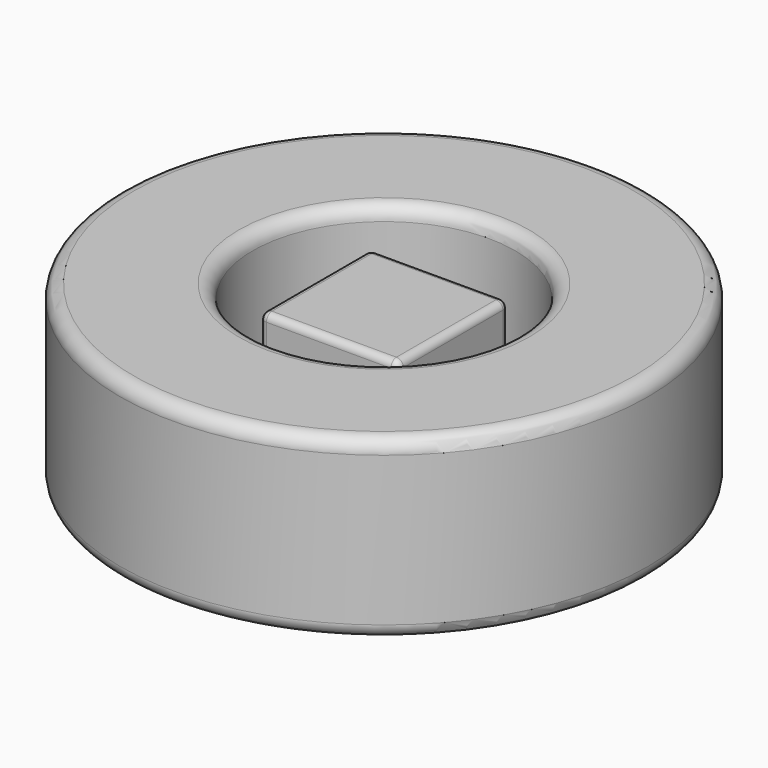
from build123d import *

# Parameters (mm, degrees)
F0_W     = 5
F0_H     = 5
F1_DEPTH = 2.5
F2_R     = 0.25
F3_R     = 9.55
F3_R_2   = 4.75
F4_DEPTH = 3.2
F5_R     = 0.5


with BuildPart() as f1:
    # F0 (on Top) → F1 (new body, symmetric)
    with BuildSketch(Plane.XY):
        Rectangle(F0_W, F0_H)
    extrude(amount=F1_DEPTH, both=True)

    # F2
    f2_edges = [f1.edges().sort_by_distance(p)[0] for p in [
        (2.5, 2.5, 0),
        (2.5, -2.5, 0),
        (-2.5, -2.5, 0),
        (-2.5, 2.5, 0),
        (-2.5, 0, 2.5),
        (-2.5, 0, -2.5),
        (0, -2.5, 2.5),
        (2.5, 0, 2.5),
        (0, 2.5, 2.5),
        (0, -2.5, -2.5),
        (2.5, 0, -2.5),
        (0, 2.5, -2.5),
    ]]
    fillet(f2_edges, radius=F2_R)


with BuildPart() as f4:
    # F3 (on Top) → F4 (new body, symmetric)
    with BuildSketch(Plane.XY):
        Circle(F3_R)
        Circle(F3_R_2, mode=Mode.SUBTRACT)
    extrude(amount=F4_DEPTH, both=True)

    # F5
    f5_edges = [f4.edges().sort_by_distance(p)[0] for p in [
        (-9.55, 0, 3.2),
        (-9.55, 0, -3.2),
        (-4.75, 0, 3.2),
        (-4.75, 0, -3.2),
    ]]
    fillet(f5_edges, radius=F5_R)


solid = Compound([f1.part, f4.part])
